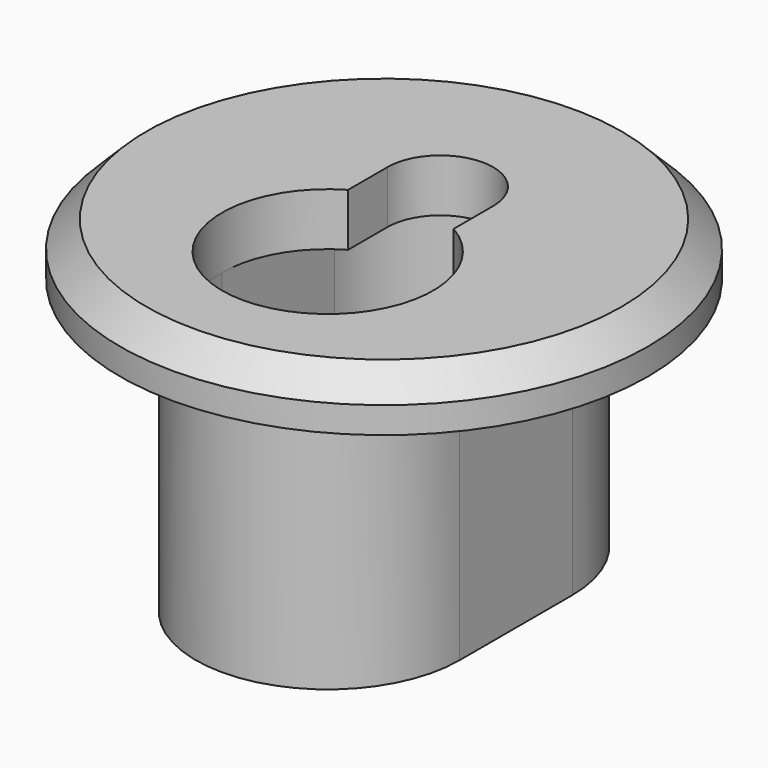
from build123d import *

# Parameters (mm, degrees)
PAD011_DEPTH    = 15
POCKET021_DEPTH = 12
SKETCH036_R     = 15
PAD012_DEPTH    = 3
CHAMFER001_SIZE = 1.5


with BuildPart() as part:
    # Sketch034 → Pad011 (new body)
    with BuildSketch(Plane.XY):
        with BuildLine():
            ThreePointArc((7.5, 8), (0, 15.5), (-7.5, 8))
            Line((-7.5, 8), (-7.5, 0))
            ThreePointArc((-7.5, 0), (0, -7.5), (7.5, 0))
            Line((7.5, 0), (7.5, 8))
        make_face()
    extrude(amount=PAD011_DEPTH)

    # Sketch035 (on Face6 of Pad011) → Pocket021 (cut)
    with BuildSketch(Plane.XY.offset(15)):
        with BuildLine():
            ThreePointArc((-6, 0), (0, -6), (6, 0))
            Line((6, 0), (6, 8))
            ThreePointArc((6, 8), (0, 14), (-6, 8))
            Line((-6, 8), (-6, 0))
        make_face()
    extrude(amount=-POCKET021_DEPTH, mode=Mode.SUBTRACT)

    # Sketch036 (on Face5 of Pocket021) → Pad012 (join)
    with BuildSketch(Plane.XY.offset(15)):
        with Locations((0, 4)):
            Circle(SKETCH036_R)
        with BuildLine():
            ThreePointArc((-3, 5.196152), (0, -6), (3, 5.196152))
            Line((3, 8), (3, 5.196152))
            ThreePointArc((3, 8), (0, 11), (-3, 8))
            Line((-3, 8), (-3, 5.196152))
        make_face(mode=Mode.SUBTRACT)
    extrude(amount=PAD012_DEPTH)

    # Chamfer001
    chamfer001_edges = [part.edges().sort_by_distance(p)[0] for p in [
        (-15, 4, 18),
    ]]
    chamfer(chamfer001_edges, length=CHAMFER001_SIZE)


with BuildPart() as part_1:
    # Body004 placement: moved
    add(part.part.moved(Location((-240, 190, 2))))


solid = part_1.part
